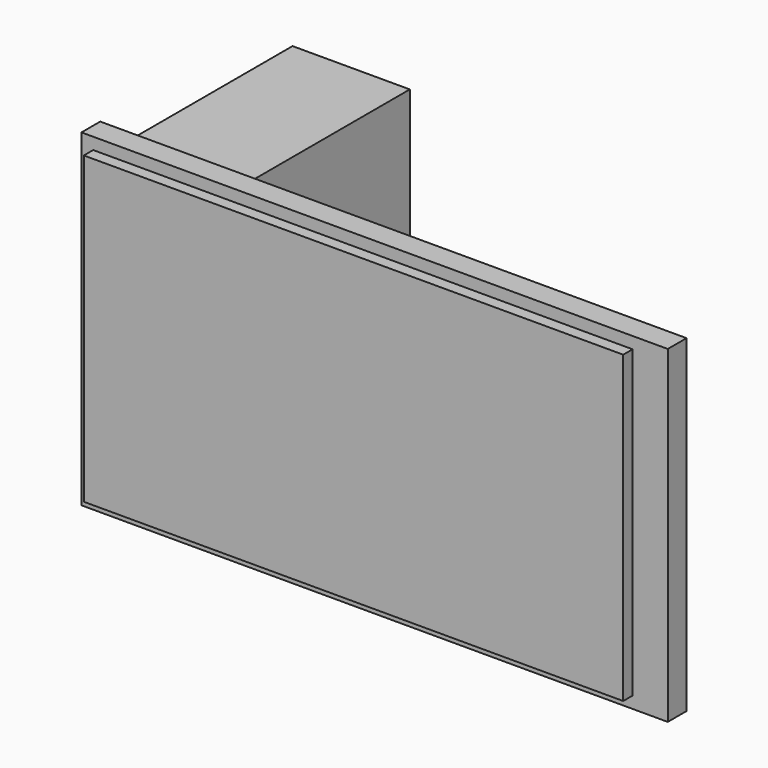
from build123d import *

# Parameters (mm, degrees)
BOX002_W     = 5
BOX002_H     = 10
BOX002_DEPTH = 13
BOX001_W     = 23
BOX001_H     = 1
BOX001_DEPTH = 13
BOX_W        = 25
BOX_H        = 1
BOX_DEPTH    = 14


with BuildPart() as cubo002:
    # Box002 → Box002 (new body)
    with BuildSketch(Plane(origin=(1, 0, 0.5), x_dir=(1, 0, 0), z_dir=(0, 0, 1))):
        with Locations((2.5, 5)):
            Rectangle(BOX002_W, BOX002_H)
    extrude(amount=BOX002_DEPTH)


with BuildPart() as cubo001:
    # Box001 → Box001 (new body)
    with BuildSketch(Plane(origin=(0.5, -0.5, 0.5), x_dir=(1, 0, 0), z_dir=(0, 0, 1))):
        with Locations((11.5, 0.5)):
            Rectangle(BOX001_W, BOX001_H)
    extrude(amount=BOX001_DEPTH)


with BuildPart() as fusion:
    # Box → Box (new body)
    with BuildSketch(Plane.XY):
        with Locations((12.5, 0.5)):
            Rectangle(BOX_W, BOX_H)
    extrude(amount=BOX_DEPTH)

    # Fusion: union Cubo002, Cubo001
    add(cubo002.part)
    add(cubo001.part)


solid = fusion.part
